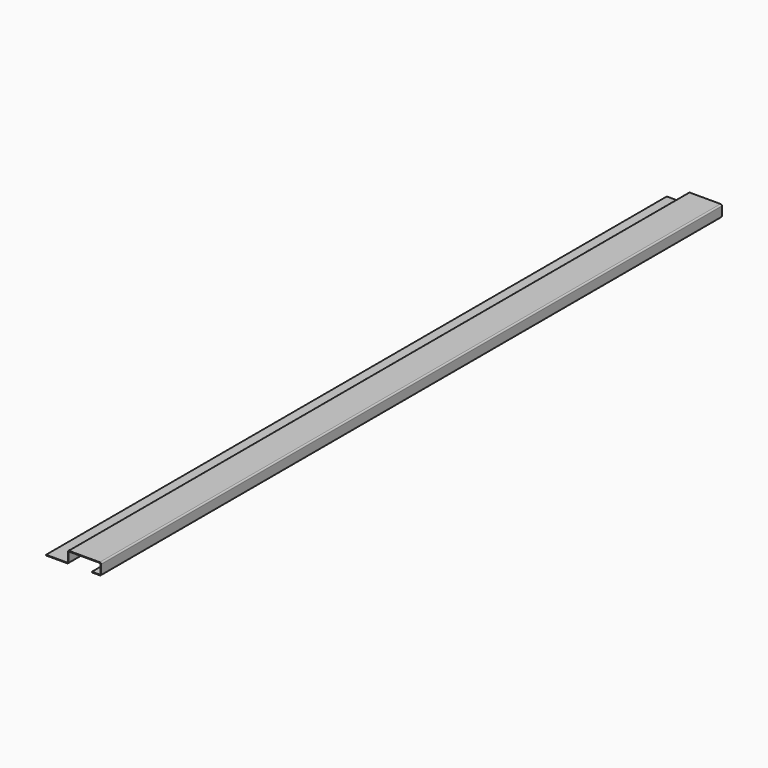
from build123d import *

# Parameters (mm, degrees)
F1_DEPTH   = 1675
F2_R       = 4.5
F1_FACE1_W = 91
F1_FACE1_H = 3350
F3_DEPTH   = 25


with BuildPart() as f1:
    # F0 (on Front) → F1 (new body, symmetric)
    with BuildSketch(Plane.XZ):
        with BuildLine():
            Line((0, 3), (0, 0))
            Line((0, 0), (91, 0))
            ThreePointArc((91, 0), (95.2426406871, 1.7573593129), (97, 6))
            Line((97, 6), (97, 44))
            ThreePointArc((97, 44), (97.8786796564, 46.1213203436), (100, 47))
            Line((100, 47), (232, 47))
            ThreePointArc((232, 47), (234.1213203436, 46.1213203436), (235, 44))
            Line((235, 44), (235, 6))
            ThreePointArc((235, 6), (234.1213203436, 3.8786796564), (232, 3))
            Line((232, 3), (198, 3))
            Line((198, 3), (198, 0))
            Line((198, 0), (232, 0))
            ThreePointArc((232, 0), (236.2426406871, 1.7573593129), (238, 6))
            Line((238, 6), (238, 44))
            ThreePointArc((238, 44), (236.2426406871, 48.2426406871), (232, 50))
            Line((232, 50), (100, 50))
            ThreePointArc((100, 50), (95.7573593129, 48.2426406871), (94, 44))
            Line((94, 44), (94, 6))
            ThreePointArc((94, 6), (93.1213203436, 3.8786796564), (91, 3))
            Line((91, 3), (0, 3))
        make_face()
    extrude(amount=F1_DEPTH, both=True)

    # F2 (on face) + F1_face1 (on face) → F3 (cut)
    with BuildSketch(Plane.XY.offset(3)):
        with BuildLine():
            ThreePointArc((49.5, 0), (45, 4.5), (40.5, 0))
            Line((40.5, 0), (49.5, 0))
        make_face()
        with BuildLine():
            Line((49.5, 0), (40.5, 0))
            ThreePointArc((40.5, 0), (45, -4.5), (49.5, 0))
        make_face()
        with Locations((45, -400)):
            Circle(F2_R)
        with Locations((45, -800)):
            Circle(F2_R)
        with Locations((45, -1200)):
            Circle(F2_R)
        with Locations((45, -1600)):
            Circle(F2_R)
        with Locations((45, 400)):
            Circle(F2_R)
        with Locations((45, 800)):
            Circle(F2_R)
        with Locations((45, 1200)):
            Circle(F2_R)
        with Locations((45, 1600)):
            Circle(F2_R)
    with BuildSketch(Plane(origin=(45.5, 0, 0), x_dir=(1, 0, 0), z_dir=(0, 0, -1))):
        Rectangle(F1_FACE1_W, F1_FACE1_H)
    extrude(amount=-F3_DEPTH, dir=(0, 0, 1), mode=Mode.SUBTRACT)


solid = f1.part
